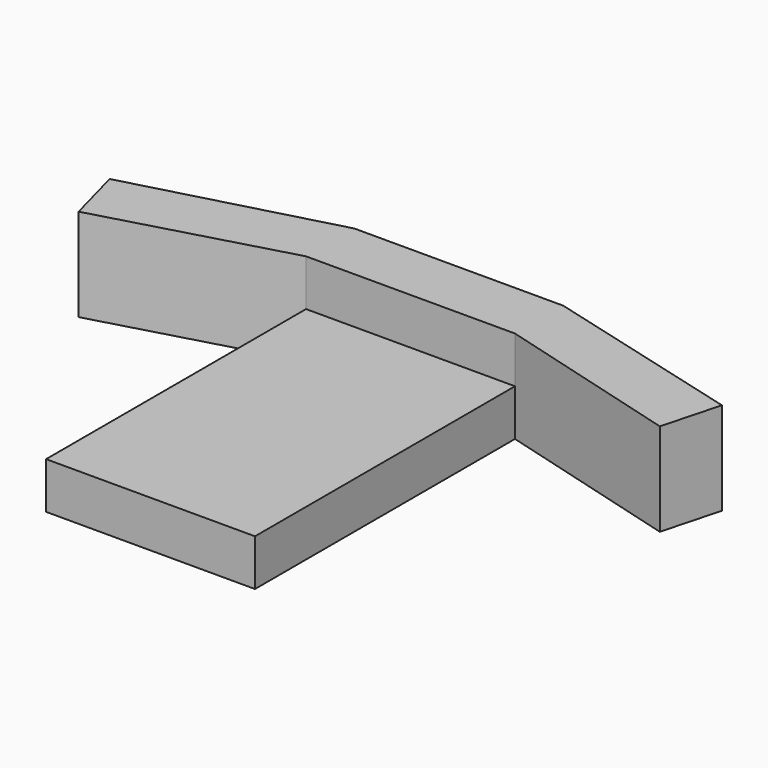
from build123d import *

# Parameters (mm, degrees)
F2_DEPTH = 20
F1_W     = 45
F1_H     = 70
F3_DEPTH = 10


with BuildPart() as f2:
    # F0 (on Top) → F2 (new body)
    with BuildSketch(Plane.XY):
        Polygon((-22.532086, 106.293333), (-65.939374, 94.662385), (-62.575909, 82.109765), (-22.532086, 93.297904), (22.467914, 93.297904), (62.624823, 82.109765), (65.980712, 94.634113), (22.467914, 106.293333), align=None)
    extrude(amount=F2_DEPTH)

    # F1 (on face) → F3 (join)
    with BuildSketch(Plane.XY):
        with Locations((-0.032086, 58.297904)):
            Rectangle(F1_W, F1_H)
    extrude(amount=F3_DEPTH)


solid = f2.part
